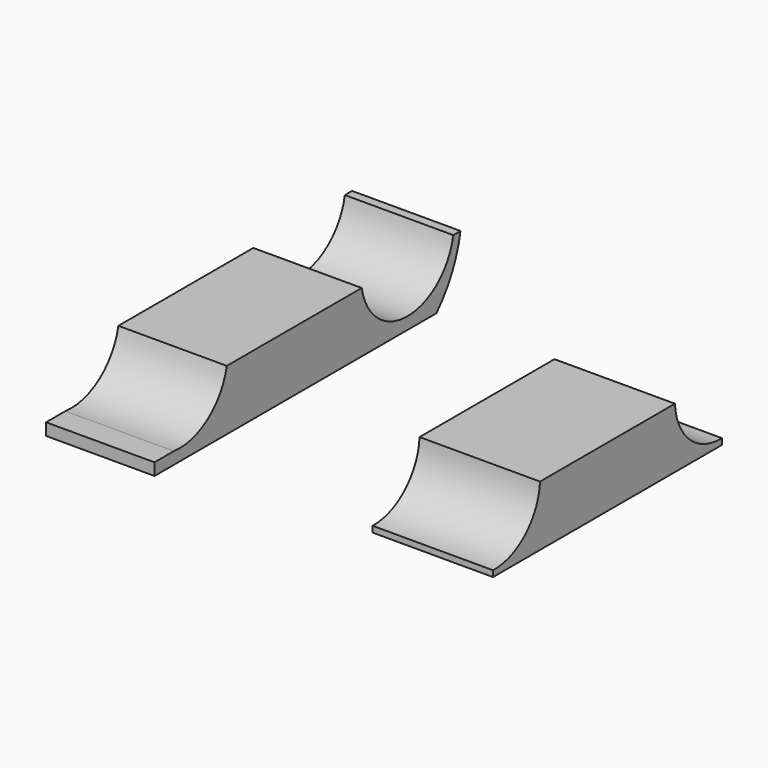
from build123d import *

# Parameters (mm, degrees)
F1_DEPTH = 40
F4_DEPTH = 36


with BuildPart() as f1:
    # F0 (on Right) → F1 (new body)
    with BuildSketch(Plane.YZ):
        with BuildLine():
            ThreePointArc((47.5, -18), (34.086726, -12.968546), (28, 0))
            Line((28, 0), (-28, 0))
            ThreePointArc((-28, 0), (-34.086726, -12.968546), (-47.5, -18))
            Line((-47.5, -18), (-47.5, -20))
            Line((-47.5, -20), (47.5, -20))
            Line((47.5, -20), (47.5, -18))
        make_face()
    extrude(amount=F1_DEPTH)


with BuildPart() as f4:
    # F3 (on offset) → F4 (new body)
    with BuildSketch(Plane.YZ.offset(-100)):
        with BuildLine():
            Line((28, 0), (-28, 0))
            ThreePointArc((-28, 0), (-35.860856, -12.316323), (-50, -16))
            Line((-50, -16), (-58, -16))
            Line((-58, -16), (-58, -20))
            Line((-58, -20), (0, -20))
            Line((0, -20), (47, -20))
            Line((47, -20), (59, -20))
            ThreePointArc((59, -20), (65.504391, -10.752196), (69, 0))
            Line((69, 0), (66, 0))
            ThreePointArc((66, 0), (47, -16), (28, 0))
        make_face()
    extrude(amount=F4_DEPTH)


solid = Compound([f1.part, f4.part])
